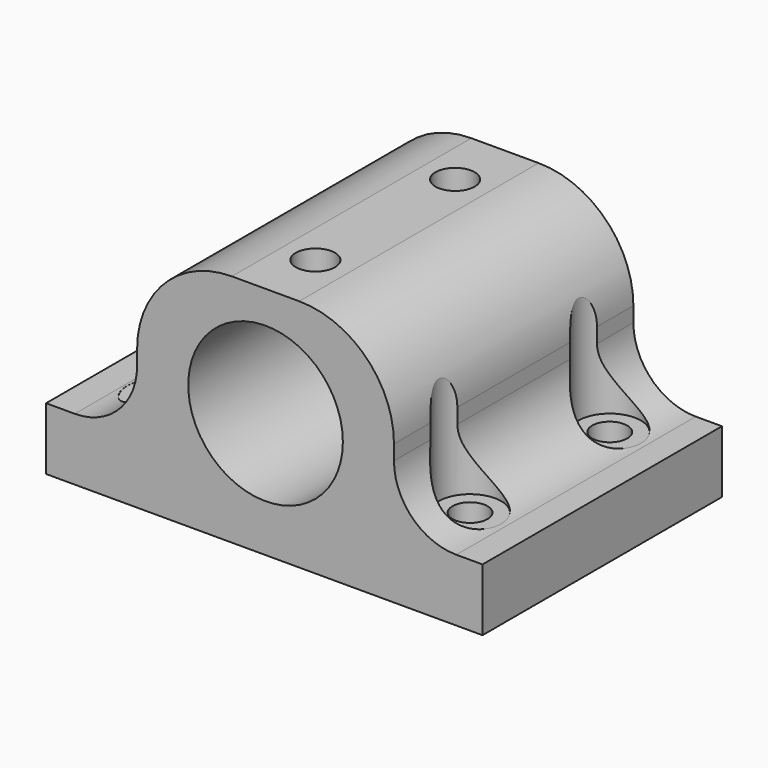
from build123d import *

# Parameters (mm, degrees)
F0_R      = 7.874
F1_DEPTH  = 30.48
F3_D      = 3.5687
F2_R      = 2.3876
F4_DEPTH  = 3.81
F6_R      = 3.175
F7_DEPTH  = 12.7
F9_D      = 3.9878
F9_DEPTH  = 6.35
F9_TIP    = 1.1980559883
F10_SIZE2 = 0.508
F10_SIZE  = 0.508


with BuildPart() as f1:
    # F0 (on Front) → F1 (new body)
    with BuildSketch(Plane.XZ):
        with BuildLine():
            Line((-40.0582700968, 20.666185411), (-40.0582700968, 14.3161859534))
            Line((-40.0582700968, 14.3161859534), (4.3917299032, 14.3161859534))
            Line((4.3917299032, 14.3161859534), (4.3917299032, 20.666185411))
            Line((4.3917299032, 20.666185411), (1.7247299032, 20.666185411))
            ThreePointArc((1.7247299032, 20.666185411), (-2.7653981573, 22.5260573505), (-4.6252700968, 27.016185411))
            Line((-4.6252700968, 27.016185411), (-4.6252700968, 28.5401859534))
            ThreePointArc((-4.6252700968, 28.5401859534), (-7.4522754448, 35.3651806054), (-14.2772700968, 38.1921859534))
            Line((-14.2772700968, 38.1921859534), (-21.1352700968, 38.1921859534))
            ThreePointArc((-21.1352700968, 38.1921859534), (-27.9602647488, 35.3651806054), (-30.7872700968, 28.5401859534))
            Line((-30.7872700968, 28.5401859534), (-30.7872700968, 27.016185411))
            ThreePointArc((-30.7872700968, 27.016185411), (-32.6471420362, 22.5260573505), (-37.1372700968, 20.666185411))
            Line((-37.1372700968, 20.666185411), (-40.0582700968, 20.666185411))
        make_face()
        with Locations((-17.7062700968, 27.0161859534)):
            Circle(F0_R, mode=Mode.SUBTRACT)
    extrude(amount=F1_DEPTH)

    # F3 (through all)
    with Locations(Plane(origin=(0, 0, 14.3161859534), x_dir=(1, 0, 0), z_dir=(0, 0, -1))):
        with Locations((-33.7082700968, 24.13), (-33.7082700968, 6.35), (-1.9582700968, 24.13), (-1.9582700968, 6.35)):
            Hole(F3_D / 2)

    # F2 (on face) → F4 (cut)
    with BuildSketch(Plane(origin=(0, 0, 14.3161859534), x_dir=(1, 0, 0), z_dir=(0, 0, -1))):
        with Locations((-33.7082700968, 24.13)):
            Circle(F2_R)
        with Locations((-1.9582700968, 6.35)):
            Circle(F2_R)
        with Locations((-33.7082700968, 6.35)):
            Circle(F2_R)
        with Locations((-1.9582700968, 24.13)):
            Circle(F2_R)
    extrude(amount=-F4_DEPTH, mode=Mode.SUBTRACT)

    # F6 (on offset) → F7 (cut)
    with BuildSketch(Plane.XY.offset(33.366185411)):
        with Locations((-33.7082700968, -6.35)):
            Circle(F6_R)
        with Locations((-33.7082700968, -24.13)):
            Circle(F6_R)
        with Locations((-1.9582700968, -6.35)):
            Circle(F6_R)
        with Locations((-1.9582700968, -24.13)):
            Circle(F6_R)
    extrude(amount=-F7_DEPTH, mode=Mode.SUBTRACT)

    # F9
    with Locations(Plane.XY.offset(38.1921859534)):
        with Locations((-17.7062700968, -6.35), (-17.7062700968, -24.13)):
            Hole(F9_D / 2, depth=F9_DEPTH)
            with Locations((0, 0, -(F9_DEPTH + F9_TIP / 2))):  # 118° drill point
                Cone(0, F9_D / 2, F9_TIP, mode=Mode.SUBTRACT)

    # F10
    f10_edges = [f1.edges().sort_by_distance(p)[0] for p in [
        (-25.58027, 0, 27.016186),
    ]]
    chamfer(f10_edges, length=F10_SIZE, length2=F10_SIZE2)


solid = f1.part
